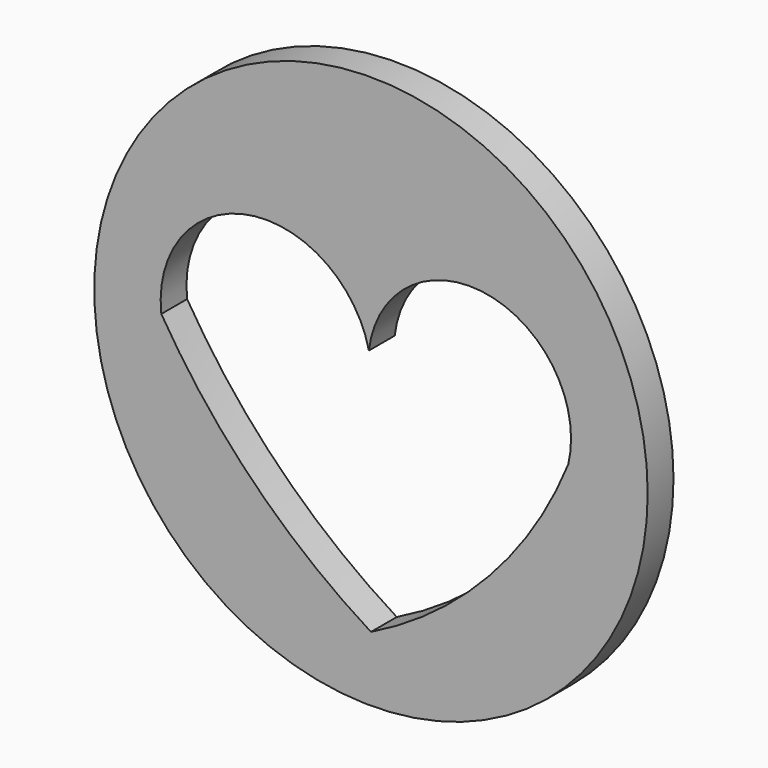
from build123d import *

# Parameters (mm, degrees)
F0_R     = 25.7331145618
F1_DEPTH = 3
F3_DEPTH = 25


with BuildPart() as f1:
    # F0 (on Front) → F1 (new body)
    with BuildSketch(Plane.XZ):
        Circle(F0_R)
    extrude(amount=F1_DEPTH)

    # F2 (on face) → F3 (cut)
    with BuildSketch(Plane.XZ.offset(3)):
        with BuildLine():
            ThreePointArc((0, -19.687499851), (10.9879974236, -11.5337599019), (18.3495152742, 0))
            ThreePointArc((18.3495152742, 0), (10.8182363857, 11.4662506422), (-0.1910024421, 3.2814033059))
            ThreePointArc((-0.1910024421, 3.2814033059), (-11.3916591455, 10.7478604215), (-19.4963607937, 0))
            ThreePointArc((-19.4963607937, 0), (-10.9079914503, -10.9923007786), (0, -19.687499851))
        make_face()
        with BuildLine():
            ThreePointArc((0, 0), (-0.2395719307, 1.6323156501), (-0.1910024421, 3.2814033059))
            ThreePointArc((-0.1910024421, 3.2814033059), (0.0429440118, 1.6487602105), (0, 0))
        make_face(mode=Mode.SUBTRACT)
        with BuildLine():
            ThreePointArc((0, 0), (0.0429440118, 1.6487602105), (-0.1910024421, 3.2814033059))
            ThreePointArc((-0.1910024421, 3.2814033059), (-0.2395719307, 1.6323156501), (0, 0))
        make_face()
    extrude(amount=-F3_DEPTH, mode=Mode.SUBTRACT)


solid = f1.part
